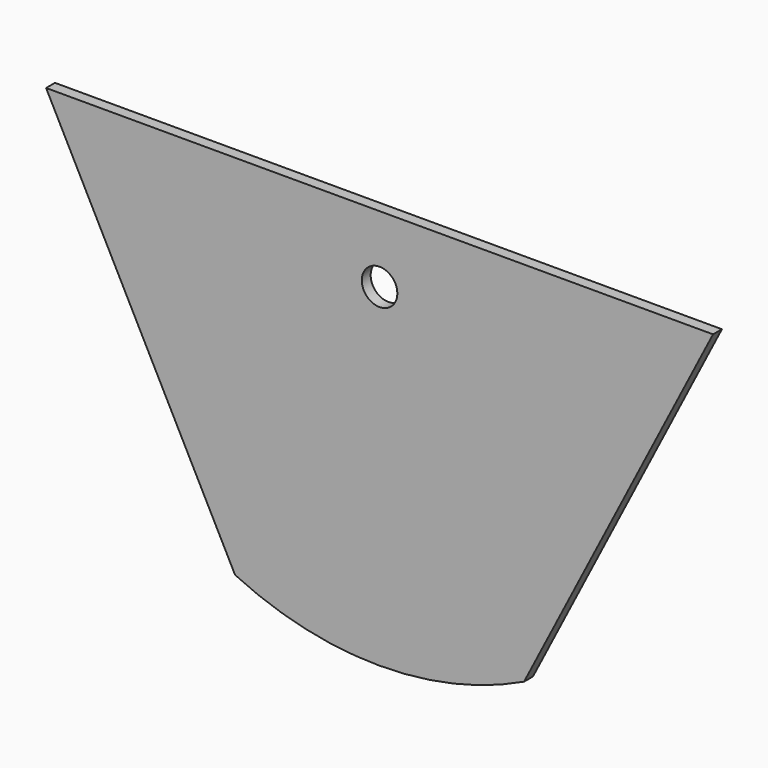
from build123d import *

# Parameters (mm, degrees)
F1_DEPTH = 5
F2_R     = 8
F3_DEPTH = 5.001


with BuildPart() as f1:
    # F0 (on Front) → F1 (new body)
    with BuildSketch(Plane.XZ):
        with BuildLine():
            Line((-150, 30), (-65, -135.185058))
            ThreePointArc((-65, -135.185058), (0, -150), (65, -135.185058))
            Line((65, -135.185058), (150, 30))
            Line((150, 30), (-150, 30))
        make_face()
    extrude(amount=F1_DEPTH)

    # F2 (on face) → F3 (cut, through all)
    with BuildSketch(Plane.XZ.offset(5)):
        Circle(F2_R)
    extrude(amount=-F3_DEPTH, mode=Mode.SUBTRACT)


solid = f1.part
